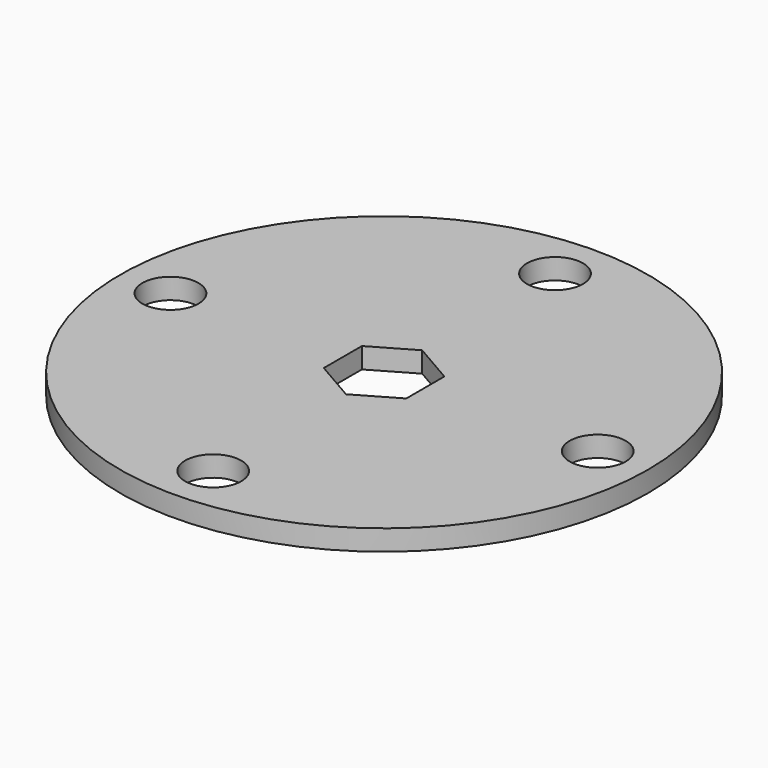
from build123d import *

# Parameters (mm, degrees)
F0_R     = 40.64
F1_DEPTH = 3.175
F2_R     = 4.318
F4_DEPTH = 25.4
F5_DEPTH = 25.4


with BuildPart() as f1:
    # F0 (on Top) → F1 (new body)
    with BuildSketch(Plane.XY):
        Circle(F0_R)
    extrude(amount=F1_DEPTH)

    # F2 (on face) → F4 (cut)
    with BuildSketch(Plane.XY.offset(3.175)):
        with Locations((-32.893, 0)):
            Circle(F2_R)
        with Locations((0, -32.893)):
            Circle(F2_R)
        with Locations((32.893, 0)):
            Circle(F2_R)
        with Locations((0, 32.893)):
            Circle(F2_R)
    extrude(amount=-F4_DEPTH, mode=Mode.SUBTRACT)

    # F3 (on face) → F5 (cut)
    with BuildSketch(Plane.XY.offset(3.175)):
        Polygon((6.35, -3.666174), (6.35, 3.666174), (0, 7.332348), (-6.35, 3.666174), (-6.35, -3.666174), (0, -7.332348), align=None)
    extrude(amount=-F5_DEPTH, mode=Mode.SUBTRACT)


solid = f1.part
